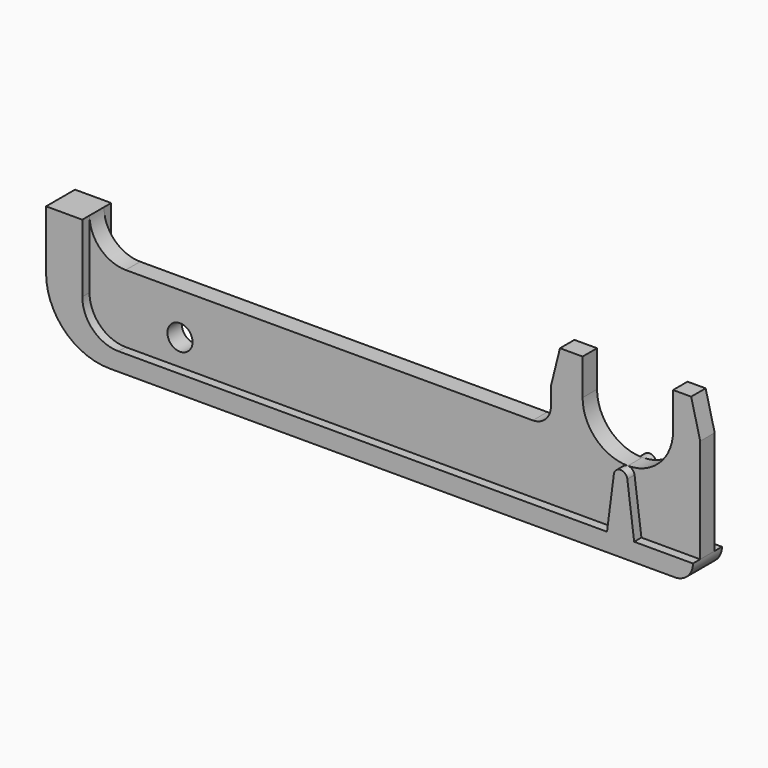
from build123d import *

# Parameters (mm, degrees)
F0_R          = 8.8265
F1_DEPTH      = 12.7
F3_DEPTH      = 6.35
F3_DEPTH_BACK = 19.05


with BuildPart() as f1:
    # F0 (on Front) → F1 (new body)
    with BuildSketch(Plane.XZ):
        with BuildLine():
            Line((227.0125, 30.1625), (220.6625, 55.5625))
            Line((220.6625, 55.5625), (207.9625, 55.5625))
            Line((207.9625, 55.5625), (207.9625, 30.1625))
            ThreePointArc((207.9625, 30.1625), (198.66314, 7.71186), (176.2125, -1.5875))
            ThreePointArc((176.2125, -1.5875), (153.76186, 7.71186), (144.4625, 30.1625))
            Line((144.4625, 30.1625), (144.4625, 55.5625))
            Line((144.4625, 55.5625), (128.5875, 55.5625))
            Line((128.5875, 55.5625), (122.2375, 30.1625))
            Line((122.2375, 30.1625), (122.2375, 17.4625))
            ThreePointArc((122.2375, 17.4625), (118.517756, 8.482244), (109.5375, 4.7625))
            Line((109.5375, 4.7625), (-176.2125, 4.7625))
            ThreePointArc((-176.2125, 4.7625), (-194.173012, 12.201988), (-201.6125, 30.1625))
            Line((-201.6125, 30.1625), (-227.0125, 30.1625))
            Line((-227.0125, 30.1625), (-227.0125, -11.1125))
            ThreePointArc((-227.0125, -11.1125), (-213.993396, -42.543396), (-182.5625, -55.5625))
            Line((-182.5625, -55.5625), (214.3125, -55.5625))
            ThreePointArc((214.3125, -55.5625), (223.292756, -51.842756), (227.0125, -42.8625))
            Line((227.0125, -42.8625), (227.0125, 30.1625))
        make_face()
        with Locations((-138.1125, -24.511)):
            Circle(F0_R, mode=Mode.SUBTRACT)
    extrude(amount=F1_DEPTH)

    # F2 (on face) → F3 (join, two sides)
    with BuildSketch(Plane.XZ.offset(12.7)) as f3_sk:
        with BuildLine():
            Line((-201.6125, -17.4625), (-201.6125, 30.1625))
            Line((-201.6125, 30.1625), (-227.0125, 30.1625))
            Line((-227.0125, 30.1625), (-227.0125, -11.1125))
            ThreePointArc((-227.0125, -11.1125), (-213.993396, -42.543396), (-182.5625, -55.5625))
            Line((-182.5625, -55.5625), (214.3125, -55.5625))
            ThreePointArc((214.3125, -55.5625), (223.292756, -51.842756), (227.0125, -42.8625))
            Line((227.0125, -42.8625), (185.7375, -42.8625))
            Line((185.7375, -42.8625), (180.935652, -5.739069))
            ThreePointArc((180.935652, -5.739069), (176.2125, -1.5875), (171.489348, -5.739069))
            Line((171.489348, -5.739069), (166.6875, -42.8625))
            Line((166.6875, -42.8625), (-176.2125, -42.8625))
            ThreePointArc((-176.2125, -42.8625), (-194.173012, -35.423012), (-201.6125, -17.4625))
        make_face()
    extrude(amount=F3_DEPTH)
    extrude(f3_sk.sketch, amount=-F3_DEPTH_BACK)


solid = f1.part
